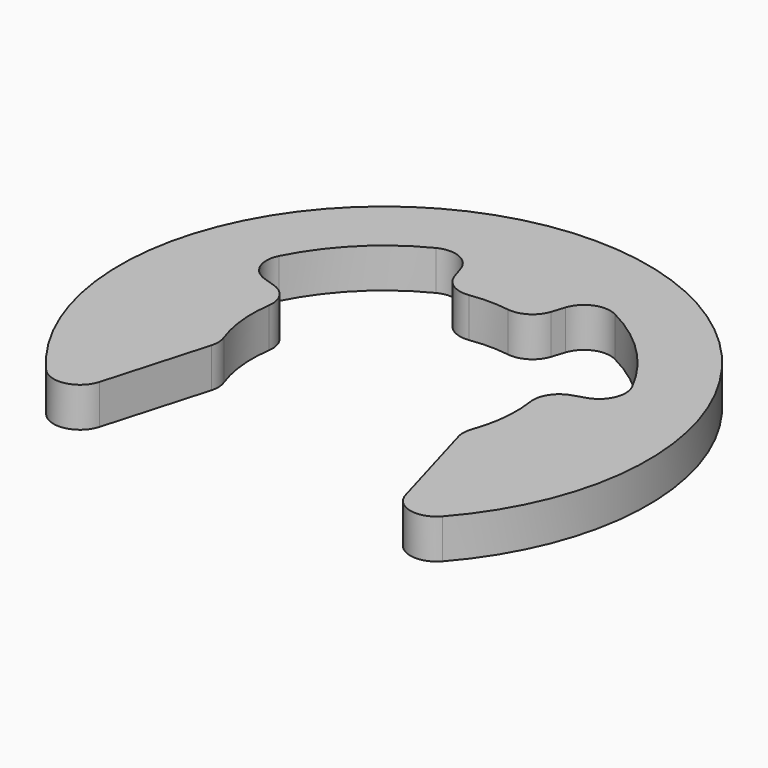
from build123d import *

# Parameters (mm, degrees)
PAD_DEPTH = 0.9
FILLET_R  = 0.6


with BuildPart() as part:
    # Sketch → Pad (new body)
    with BuildSketch(Plane.XY):
        with BuildLine():
            ThreePointArc((3.749388, -4.684238), (0, 6), (-3.749388, -4.684238))
            Line((-2.75, -1.198958), (-3.749388, -4.684238))
            ThreePointArc((-2.85317, 0.927051), (-2.996474, -0.145411), (-2.75, -1.198958))
            Line((-2.85317, 0.927051), (-4.279754, 1.390576))
            ThreePointArc((-1.390576, 4.279754), (-3.181981, 3.181981), (-4.279754, 1.390576))
            Line((-0.927051, 2.85317), (-1.390576, 4.279754))
            ThreePointArc((0.927051, 2.85317), (0, 3), (-0.927051, 2.85317))
            Line((0.927051, 2.85317), (1.390576, 4.279754))
            ThreePointArc((4.279754, 1.390576), (3.181981, 3.181981), (1.390576, 4.279754))
            Line((4.279754, 1.390576), (2.85317, 0.927051))
            ThreePointArc((2.75, -1.198958), (2.996474, -0.145411), (2.85317, 0.927051))
            Line((2.75, -1.198958), (3.749388, -4.684238))
        make_face()
    extrude(amount=PAD_DEPTH)

    # Fillet
    fillet_edges = [part.edges().sort_by_distance(p)[0] for p in [
        (3.749388, -4.684238, 0.45),
        (2.75, -1.198958, 0.45),
        (2.85317, 0.927051, 0.45),
        (4.279754, 1.390576, 0.45),
        (1.390576, 4.279754, 0.45),
        (0.927051, 2.85317, 0.45),
        (-0.927051, 2.85317, 0.45),
        (-1.390576, 4.279754, 0.45),
        (-4.279754, 1.390576, 0.45),
        (-2.85317, 0.927051, 0.45),
        (-2.75, -1.198958, 0.45),
        (-3.749388, -4.684238, 0.45),
    ]]
    fillet(fillet_edges, radius=FILLET_R)


solid = part.part
